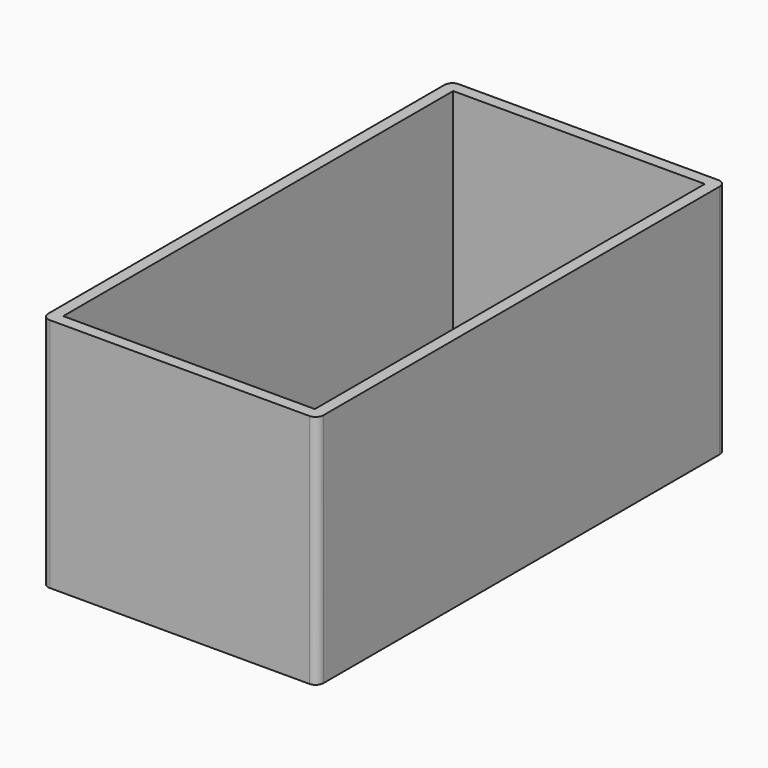
from build123d import *

# Parameters (mm, degrees)
F0_W     = 70
F0_H     = 130
F1_DEPTH = 60
F2_R     = 2
F3_W     = 64
F3_H     = 124
F4_DEPTH = 56


with BuildPart() as f1:
    # F0 (on Top) → F1 (new body)
    with BuildSketch(Plane.XY):
        with Locations((-1.721807, 8.950054)):
            Rectangle(F0_W, F0_H)
    extrude(amount=F1_DEPTH)

    # F2
    f2_edges = [f1.edges().sort_by_distance(p)[0] for p in [
        (33.278193, 73.950054, 30),
        (33.278193, -56.049946, 30),
        (-36.721807, 73.950054, 30),
        (-36.721807, -56.049946, 30),
    ]]
    fillet(f2_edges, radius=F2_R)

    # F3 (on face) → F4 (cut)
    with BuildSketch(Plane.XY.offset(60)):
        with Locations((-1.721807, 8.950054)):
            Rectangle(F3_W, F3_H)
    extrude(amount=-F4_DEPTH, mode=Mode.SUBTRACT)


solid = f1.part
